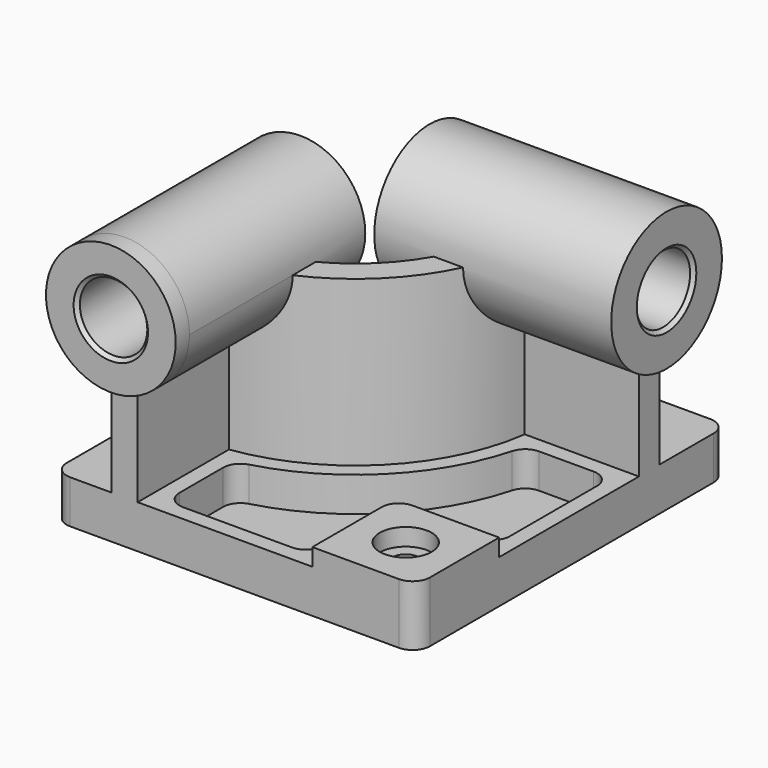
from build123d import *

# Parameters (mm, degrees)
F0_W            = 210
F0_H            = 225
F1_DEPTH        = 25
F3_DEPTH        = 95
F4_R            = 37.5
F5_DEPTH        = 10
F5_DEPTH_BACK   = 127
F6_R            = 40
F7_DEPTH        = 10
F7_DEPTH_BACK   = 127
F8_W            = 60
F8_H            = 60
F9_DEPTH        = 10
F10_R           = 10
F12_DEPTH       = 20
F14_D           = 15
F14_CBORE_D     = 30
F14_CBORE_DEPTH = 10
F15_R           = 10
F16_R           = 19.5
F17_DEPTH       = 235.001
F18_R           = 19.5
F19_DEPTH       = 220.001
F20_SIZE        = 2
F21_R           = 10


with BuildPart() as f1:
    # F0 (on Top) → F1 (new body)
    with BuildSketch(Plane.XY):
        Rectangle(F0_W, F0_H)
    extrude(amount=F1_DEPTH)

    # F2 (on face) → F3 (join)
    with BuildSketch(Plane.XY.offset(25)):
        with BuildLine():
            Line((-71, -32.5), (-71, -112.5))
            Line((-71, -112.5), (-56, -112.5))
            Line((-56, -112.5), (-56, -46.481817))
            ThreePointArc((-56, -46.481817), (7.488853, -14.988853), (38.981817, 48.5))
            Line((38.981817, 48.5), (105, 48.5))
            Line((105, 48.5), (105, 63.5))
            Line((105, 63.5), (25, 63.5))
            ThreePointArc((25, 63.5), (-3.117749, -4.382251), (-71, -32.5))
        make_face()
    extrude(amount=F3_DEPTH)

    # F4 (on face) → F5 (join, two sides)
    with BuildSketch(Plane.XZ.offset(112.5)) as f5_sk:
        with Locations((-63.5, 120)):
            Circle(F4_R)
    extrude(amount=F5_DEPTH)
    extrude(f5_sk.sketch, amount=-F5_DEPTH_BACK)

    # F6 (on face) → F7 (join, two sides)
    with BuildSketch(Plane.YZ.offset(105)) as f7_sk:
        with Locations((56, 120)):
            Circle(F6_R)
    extrude(amount=F7_DEPTH)
    extrude(f7_sk.sketch, amount=-F7_DEPTH_BACK)

    # F8 (on face) → F9 (join)
    with BuildSketch(Plane.XY.offset(25)):
        with Locations((75, -82.5)):
            Rectangle(F8_W, F8_H)
    extrude(amount=F9_DEPTH)

    # F10
    f10_edges = [f1.edges().sort_by_distance(p)[0] for p in [
        (45, -52.5, 30),
    ]]
    fillet(f10_edges, radius=F10_R)

    # F11 (on face) → F12 (cut)
    with BuildSketch(Plane.XY.offset(25)):
        with BuildLine():
            ThreePointArc((46.575508, 39.5), (13.852814, -21.352814), (-47, -54.075508))
            Line((-47, -54.075508), (-47, -103.5))
            Line((-47, -103.5), (36, -103.5))
            Line((36, -103.5), (36, -62.5))
            ThreePointArc((36, -62.5), (41.564971, -49.064971), (55, -43.5))
            Line((55, -43.5), (96, -43.5))
            Line((96, -43.5), (96, 39.5))
            Line((96, 39.5), (46.575508, 39.5))
        make_face()
    extrude(amount=-F12_DEPTH, mode=Mode.SUBTRACT)

    # F14 (through all)
    with Locations(Plane.XY.offset(35)):
        with Locations((75, -82.5)):
            CounterBoreHole(F14_D / 2, F14_CBORE_D / 2, F14_CBORE_DEPTH)

    # F15
    f15_edges = [f1.edges().sort_by_distance(p)[0] for p in [
        (-47, -54.075508, 15),
        (46.575508, 39.5, 15),
        (96, 39.5, 15),
        (-47, -103.5, 15),
        (36, -103.5, 15),
        (96, -43.5, 15),
    ]]
    fillet(f15_edges, radius=F15_R)

    # F16 (on face) → F17 (cut, through all)
    with BuildSketch(Plane.XZ.offset(122.5)):
        with Locations((-63.5, 120)):
            Circle(F16_R)
    extrude(amount=-F17_DEPTH, mode=Mode.SUBTRACT)

    # F18 (on face) → F19 (cut, through all)
    with BuildSketch(Plane.YZ.offset(115)):
        with Locations((56, 120)):
            Circle(F18_R)
    extrude(amount=-F19_DEPTH, mode=Mode.SUBTRACT)

    # F20
    f20_edges = [f1.edges().sort_by_distance(p)[0] for p in [
        (-83, -122.5, 120),
        (115, 36.5, 120),
        (-22, 36.5, 120),
        (-83, 14.5, 120),
    ]]
    chamfer(f20_edges, length=F20_SIZE)

    # F21
    f21_edges = [f1.edges().sort_by_distance(p)[0] for p in [
        (-105, -112.5, 12.5),
        (105, -112.5, 17.5),
        (105, 112.5, 12.5),
        (-105, 112.5, 12.5),
    ]]
    fillet(f21_edges, radius=F21_R)


solid = f1.part
